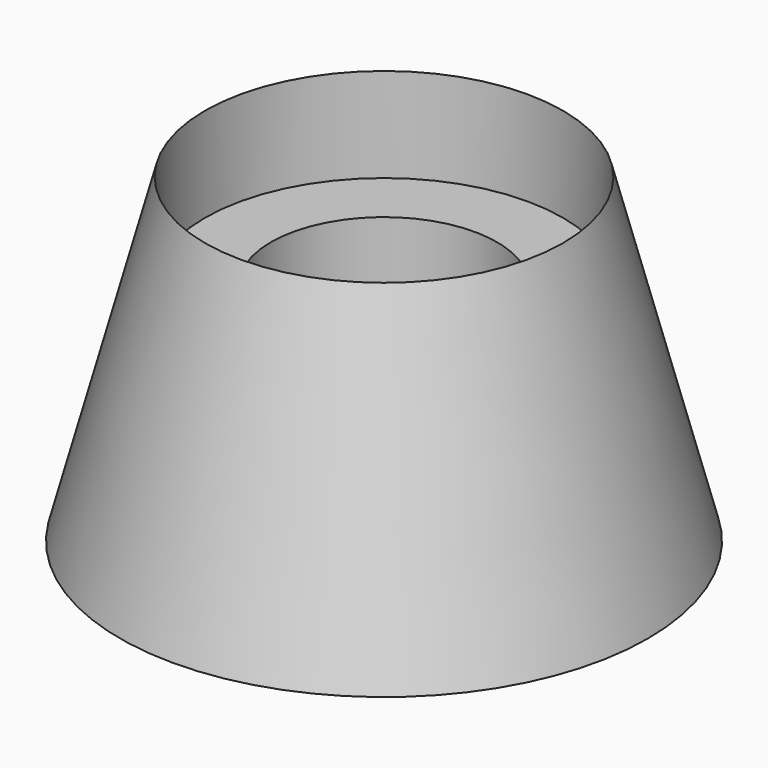
from build123d import *

# Parameters (mm, degrees)
F2_R           = 6
F0_R           = 10.5
F5_D           = 9
F5_CBORE_D     = 14.25
F5_CBORE_DEPTH = 8


with BuildPart() as f3:
    # F2 (on offset) → F3 section 0
    with BuildSketch(Plane.XY.offset(17)):
        Circle(F2_R)
    # F0 (on Top) → F3 section 1
    with BuildSketch(Plane.XY):
        Circle(F0_R)
    loft()

    # F5 (through all)
    with Locations(Plane.XY.offset(17)):
        with Locations((0, 0)):
            CounterBoreHole(F5_D / 2, F5_CBORE_D / 2, F5_CBORE_DEPTH)


solid = f3.part
